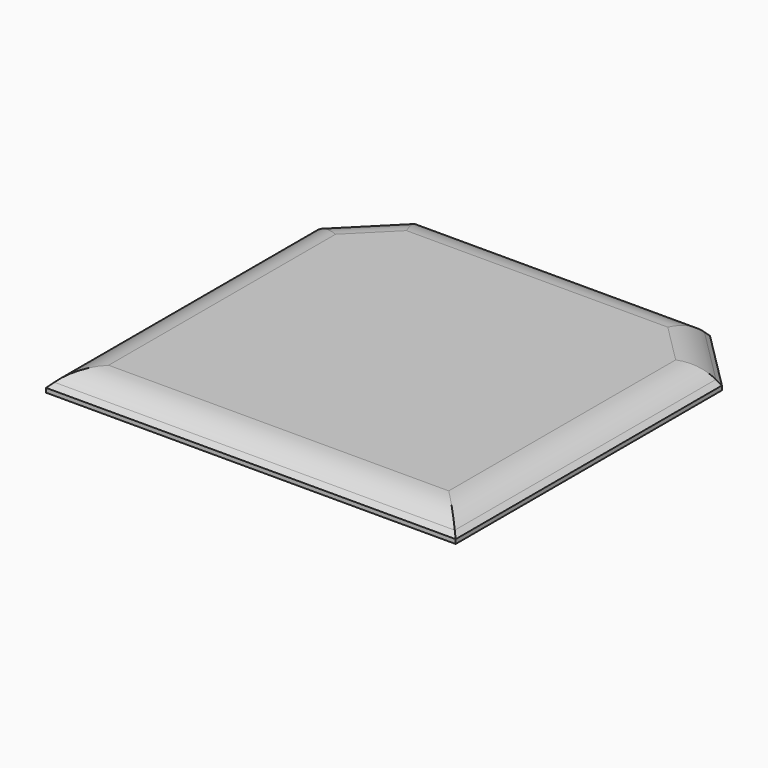
from build123d import *

# Parameters (mm, degrees)
F1_DEPTH = 25
F2_SIZE  = 20
F3_R     = 50


with BuildPart() as f1:
    # F0 (on Top) → F1 (new body)
    with BuildSketch(Plane.XY):
        Polygon((-240, -230), (240, -230), (240, 160), (170, 230), (-170, 230), (-240, 160), align=None)
    extrude(amount=F1_DEPTH)

    # F2
    f2_edges = [f1.edges().sort_by_distance(p)[0] for p in [
        (205, 195, 25),
        (-205, 195, 25),
        (0, 230, 25),
        (240, -35, 25),
        (-240, -35, 25),
        (0, -230, 25),
    ]]
    chamfer(f2_edges, length=F2_SIZE)

    # F3
    f3_edges = [f1.edges().sort_by_distance(p)[0] for p in [
        (0, 210, 25),
        (190.857864, 180.857864, 25),
        (220, -29.142136, 25),
        (-190.857864, 180.857864, 25),
        (-220, -29.142136, 25),
        (0, -210, 25),
    ]]
    fillet(f3_edges, radius=F3_R)


solid = f1.part
